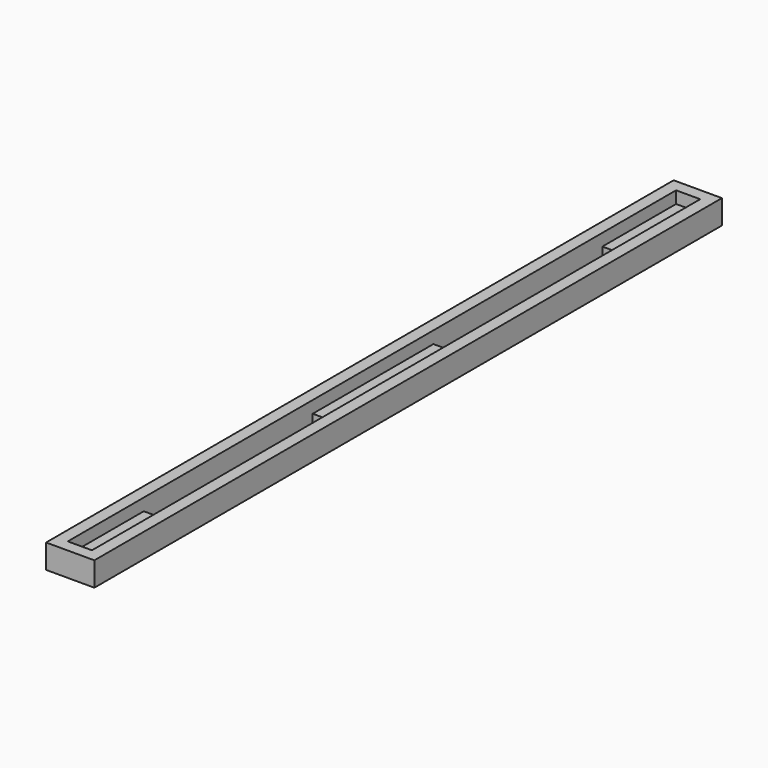
from build123d import *

# Parameters (mm, degrees)
F0_W     = 8
F0_H     = 130
F1_DEPTH = 4
F2_W     = 4
F2_H     = 126
F3_DEPTH = 2
F4_W     = 4
F4_H     = 35
F5_DEPTH = 2.001


with BuildPart() as f1:
    # F0 (on Top) → F1 (new body)
    with BuildSketch(Plane.XY):
        Rectangle(F0_W, F0_H)
    extrude(amount=F1_DEPTH)

    # F2 (on face) → F3 (cut)
    with BuildSketch(Plane.XY.offset(4)):
        Rectangle(F2_W, F2_H)
    extrude(amount=-F3_DEPTH, mode=Mode.SUBTRACT)

    # F4 (on face) → F5 (cut, through all)
    with BuildSketch(Plane.XY.offset(2)):
        with Locations((0, -29.770957)):
            Rectangle(F4_W, F4_H)
        with Locations((0, 30.229043)):
            Rectangle(F4_W, F4_H)
    extrude(amount=-F5_DEPTH, mode=Mode.SUBTRACT)


solid = f1.part
